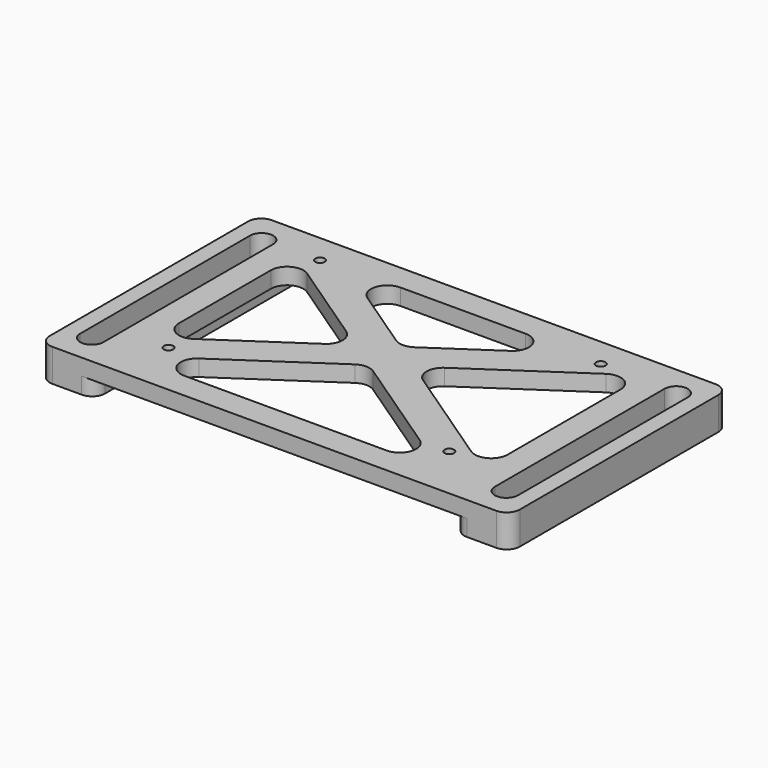
from build123d import *

# Parameters (mm, degrees)
SKETCH_W                     = 110
SKETCH_H                     = 84
PAD_DEPTH                    = 5
SKETCH001_R                  = 1.45
HOLE_DEPTH                   = 281.991975
POCKET_DEPTH                 = 1.75
SKETCH001_LINEARPATTERN_2_R  = 1.45
HOLE_LINEARPATTERN_2_DEPTH   = 281.991975
POCKET_LINEARPATTERN_2_DEPTH = 1.75
LINEARPATTERN001_COUNT       = 2
LINEARPATTERN001_PITCH       = 58
MULTITRANSFORM_FACE2_W       = 84
MULTITRANSFORM_FACE2_H       = 5
PAD001_DEPTH                 = 17
PAD001_FACE6_W               = 84
PAD001_FACE6_H               = 17
PAD002_DEPTH                 = 5
POCKET001_DEPTH              = 315.189466
POCKET002_DEPTH              = 10.001
FILLET_R                     = 5
FILLET001_R                  = 4


with BuildPart() as part:
    # Sketch → Pad (new body)
    with BuildSketch(Plane.XY):
        Rectangle(SKETCH_W, SKETCH_H)
    extrude(amount=PAD_DEPTH)

    # Sketch001 (on Face6 of Pad) → Hole (cut, through all)
    with BuildSketch(Plane.XY.offset(5)):
        with Locations((-46, 33)):
            Circle(SKETCH001_R)
    hole = extrude(amount=-HOLE_DEPTH, mode=Mode.SUBTRACT)

    # Sketch002 (on Face4 of Hole) → Pocket (cut)
    with BuildSketch(Plane(origin=(0, 0, 0), x_dir=(1, 0, 0), z_dir=(0, 0, -1))):
        Polygon((-46, -36.031089), (-43.375, -34.515544), (-43.375, -31.484456), (-46, -29.968911), (-48.625, -31.484456), (-48.625, -34.515544), align=None)
    pocket = extrude(amount=-POCKET_DEPTH, mode=Mode.SUBTRACT)

    # Sketch001 LinearPattern 2 → Hole LinearPattern 2 (cut, through all)
    with BuildSketch(Plane(origin=(86, 0, 5), x_dir=(1, 0, 0), z_dir=(0, 0, 1))):
        with Locations((-46, 33)):
            Circle(SKETCH001_LINEARPATTERN_2_R)
    hole_linearpattern_2 = extrude(amount=-HOLE_LINEARPATTERN_2_DEPTH, mode=Mode.SUBTRACT)

    # Sketch002 LinearPattern 2 → Pocket LinearPattern 2 (cut)
    with BuildSketch(Plane(origin=(86, 0, 0), x_dir=(1, 0, 0), z_dir=(0, 0, -1))):
        Polygon((-46, -36.031089), (-43.375, -34.515544), (-43.375, -31.484456), (-46, -29.968911), (-48.625, -31.484456), (-48.625, -34.515544), align=None)
    pocket_linearpattern_2 = extrude(amount=-POCKET_LINEARPATTERN_2_DEPTH, mode=Mode.SUBTRACT)

    # LinearPattern001: Hole, Pocket, Hole LinearPattern 2, Pocket LinearPattern 2 ×2
    with Locations(*[(0, -i * LINEARPATTERN001_PITCH, 0) for i in range(1, LINEARPATTERN001_COUNT)]):
        add(hole, mode=Mode.SUBTRACT)
        add(pocket, mode=Mode.SUBTRACT)
        add(hole_linearpattern_2, mode=Mode.SUBTRACT)
        add(pocket_linearpattern_2, mode=Mode.SUBTRACT)

    # MultiTransform Face2 → Pad001 (add)
    with BuildSketch(Plane(origin=(-55, 0, 2.5), x_dir=(0, 1, 0), z_dir=(-1, 0, 0))):
        Rectangle(MULTITRANSFORM_FACE2_W, MULTITRANSFORM_FACE2_H)
    pad001 = extrude(amount=PAD001_DEPTH)

    # Pad001 Face6 → Pad002 (add)
    with BuildSketch(Plane(origin=(-63.5, 0, 0), x_dir=(0, -1, 0), z_dir=(0, 0, -1))):
        Rectangle(PAD001_FACE6_W, PAD001_FACE6_H)
    pad002 = extrude(amount=PAD002_DEPTH)

    # Sketch003 (on Face7 of Pad002) → Pocket001 (cut, through all)
    with BuildSketch(Plane.XY.offset(5)):
        with BuildLine():
            ThreePointArc((-59.95, 32.5), (-63.5, 36.05), (-67.05, 32.5))
            Line((-67.05, 32.5), (-67.05, -32.5))
            ThreePointArc((-67.05, -32.5), (-63.5, -36.05), (-59.95, -32.5))
            Line((-59.95, 32.5), (-59.95, -32.5))
        make_face()
    pocket001 = extrude(amount=-POCKET001_DEPTH, mode=Mode.SUBTRACT)

    # Mirrored: Pad001, Pad002, Pocket001 across YZ
    add(pad001.mirror(Plane.YZ))
    add(pad002.mirror(Plane.YZ))
    add(pocket001.mirror(Plane.YZ), mode=Mode.SUBTRACT)

    # Sketch004 (on Face5 of Mirrored) → Pocket002 (cut, through all)
    with BuildSketch(Plane.XY.offset(5)):
        Polygon((-38.540481, 34), (32.540481, 34), (-3, 10.030838), align=None)
        Polygon((-51.95, -22.981952), (-51.95, 30.981952), (-11.942278, 4), align=None)
        Polygon((-50.40255, -34), (44.40255, -34), (-3, -2.030838), align=None)
        Polygon((51.95, 35.028464), (51.95, -27.028464), (5.942278, 4), align=None)
    extrude(amount=-POCKET002_DEPTH, mode=Mode.SUBTRACT)

    # Fillet
    fillet_edges = [part.edges().sort_by_distance(p)[0] for p in [
        (-51.95, 30.981952, 2.5),
        (-51.95, -22.981952, 2.5),
        (-11.942278, 4, 2.5),
        (44.40255, -34, 2.5),
        (-50.40255, -34, 2.5),
        (-3, -2.030838, 2.5),
        (5.942278, 4, 2.5),
        (51.95, -27.028464, 2.5),
        (51.95, 35.028464, 2.5),
        (-38.540481, 34, 2.5),
        (-3, 10.030838, 2.5),
        (32.540481, 34, 2.5),
    ]]
    fillet(fillet_edges, radius=FILLET_R)

    # Fillet001
    fillet001_edges = [part.edges().sort_by_distance(p)[0] for p in [
        (-72, 42, 2.5),
        (-72, 42, -2.5),
        (-72, -42, -2.5),
        (-72, -42, 2.5),
        (72, 42, 2.5),
        (72, 42, -2.5),
        (72, -42, 2.5),
        (72, -42, -2.5),
        (55, 42, -2.5),
        (55, -42, -2.5),
        (-55, 42, -2.5),
        (-55, -42, -2.5),
    ]]
    fillet(fillet001_edges, radius=FILLET001_R)


solid = part.part
